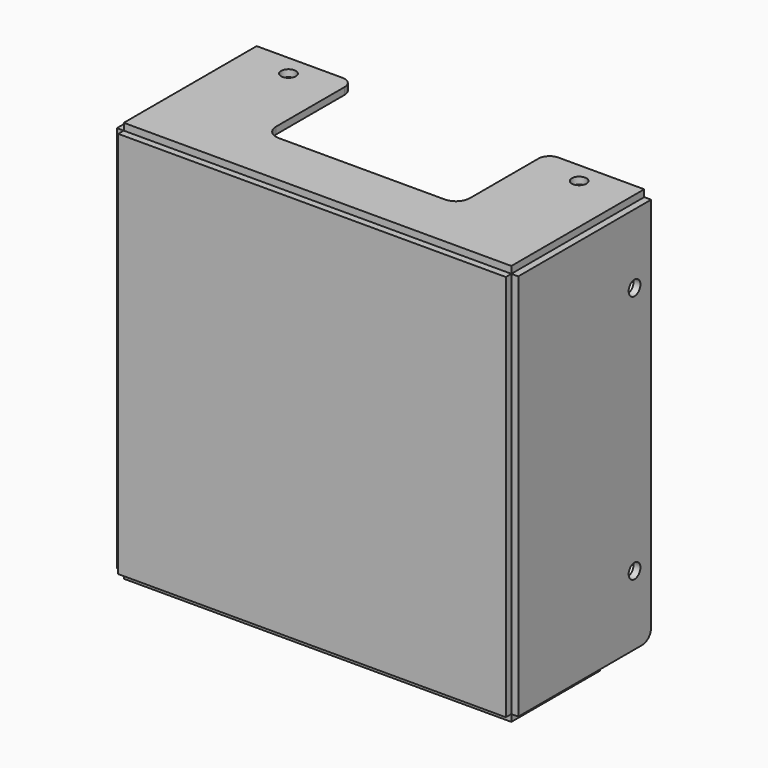
from build123d import *

# Parameters (mm, degrees)
F0_W      = 177.8
F0_H      = 177.8
F1_DEPTH  = 3.175
F2_W      = 177.8
F2_H      = 3.175
F3_DEPTH  = 76.2
F2_W_2    = 3.175
F2_H_2    = 177.8
F4_W      = 177.8
F4_H      = 3.175
F5_DEPTH  = 50.8
F6_W      = 88.9
F6_H      = 101.6
F7_DEPTH  = 25.4
F8_R      = 6.35
F9_R      = 5.08
F10_R     = 5.08
F10_2_R   = 5.08
F12_D     = 6.7564
F12_DEPTH = 19.05
F12_TIP   = 2.0298273432
F14_D     = 6.7564
F14_DEPTH = 19.05
F14_TIP   = 2.0298273432
F16_D     = 6.7564
F16_DEPTH = 19.05
F16_TIP   = 2.0298273432


with BuildPart() as f1:
    # F0 (on Front) → F1 (new body)
    with BuildSketch(Plane.XZ):
        Rectangle(F0_W, F0_H)
    extrude(amount=F1_DEPTH)


with BuildPart() as f3:
    # F2 (on face) → F3 (new body)
    with BuildSketch(Plane(origin=(0, 0, 0), x_dir=(-1, 0, 0), z_dir=(0, 1, 0))):
        with Locations((0, 90.4875)):
            Rectangle(F2_W, F2_H)
    extrude(amount=F3_DEPTH)

    # F6 (on face) → F7 (cut)
    with BuildSketch(Plane.XY.offset(92.075)):
        with Locations((0, 76.2)):
            Rectangle(F6_W, F6_H)
    extrude(amount=-F7_DEPTH, mode=Mode.SUBTRACT)

    # F8
    f8_edges = [f3.edges().sort_by_distance(p)[0] for p in [
        (-44.45, 25.4, 90.4875),
        (44.45, 25.4, 90.4875),
    ]]
    fillet(f8_edges, radius=F8_R)

    # F9
    f9_edges = [f3.edges().sort_by_distance(p)[0] for p in [
        (-44.45, 76.2, 90.4875),
        (44.45, 76.2, 90.4875),
    ]]
    fillet(f9_edges, radius=F9_R)

    # F12
    with Locations(Plane.XY.offset(92.075)):
        with Locations((-66.675, 66.675), (66.675, 66.675)):
            Hole(F12_D / 2, depth=F12_DEPTH)
            with Locations((0, 0, -(F12_DEPTH + F12_TIP / 2))):  # 118° drill point
                Cone(0, F12_D / 2, F12_TIP, mode=Mode.SUBTRACT)


with BuildPart() as f3b:
    # F2 (on face) → F3, piece 2 (new body)
    with BuildSketch(Plane(origin=(0, 0, 0), x_dir=(-1, 0, 0), z_dir=(0, 1, 0))):
        with Locations((90.4875, 0)):
            Rectangle(F2_W_2, F2_H_2)
    extrude(amount=F3_DEPTH)

    # F10#2
    f10_2_edges = [f3b.edges().sort_by_distance(p)[0] for p in [
        (-90.4875, 76.2, -88.9),
    ]]
    fillet(f10_2_edges, radius=F10_2_R)

    # F16
    with Locations(Plane(origin=(-92.075, 0, 0), x_dir=(0, -1, 0), z_dir=(-1, 0, 0))):
        with Locations((-66.675, 57.15), (-66.675, -57.15)):
            Hole(F16_D / 2, depth=F16_DEPTH)
            with Locations((0, 0, -(F16_DEPTH + F16_TIP / 2))):  # 118° drill point
                Cone(0, F16_D / 2, F16_TIP, mode=Mode.SUBTRACT)


with BuildPart() as f3c:
    # F2 (on face) → F3, piece 3 (new body)
    with BuildSketch(Plane(origin=(0, 0, 0), x_dir=(-1, 0, 0), z_dir=(0, 1, 0))):
        with Locations((-90.4875, 0)):
            Rectangle(F2_W_2, F2_H_2)
    extrude(amount=F3_DEPTH)

    # F10
    f10_edges = [f3c.edges().sort_by_distance(p)[0] for p in [
        (90.4875, 76.2, -88.9),
    ]]
    fillet(f10_edges, radius=F10_R)

    # F14
    with Locations(Plane.YZ.offset(92.075)):
        with Locations((66.675, 57.15), (66.675, -57.15)):
            Hole(F14_D / 2, depth=F14_DEPTH)
            with Locations((0, 0, -(F14_DEPTH + F14_TIP / 2))):  # 118° drill point
                Cone(0, F14_D / 2, F14_TIP, mode=Mode.SUBTRACT)


with BuildPart() as f5:
    # F4 (on face) → F5 (new body)
    with BuildSketch(Plane(origin=(0, 0, 0), x_dir=(-1, 0, 0), z_dir=(0, 1, 0))):
        with Locations((0, -90.4875)):
            Rectangle(F4_W, F4_H)
    extrude(amount=F5_DEPTH)


solid = Compound([f1.part, f3.part, f3b.part, f3c.part, f5.part])
